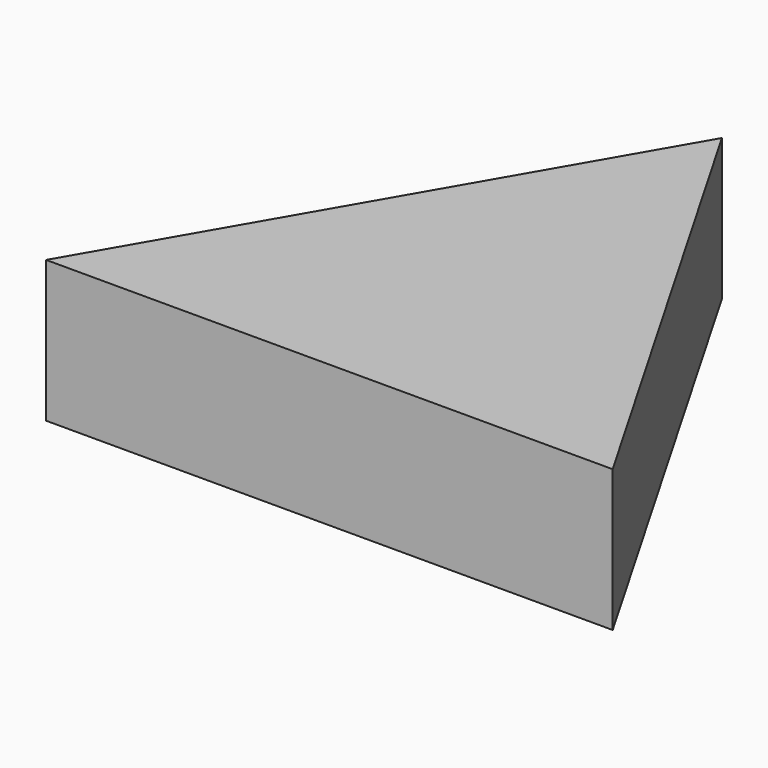
from build123d import *

# Parameters (mm, degrees)
PAD_DEPTH = 10


with BuildPart() as part:
    # Sketch → Pad (new body)
    with BuildSketch(Plane.XY):
        Polygon((-20.01096, -17.33), (0, 17.33), (20.01096, -17.33), align=None)
    extrude(amount=PAD_DEPTH)


solid = part.part
